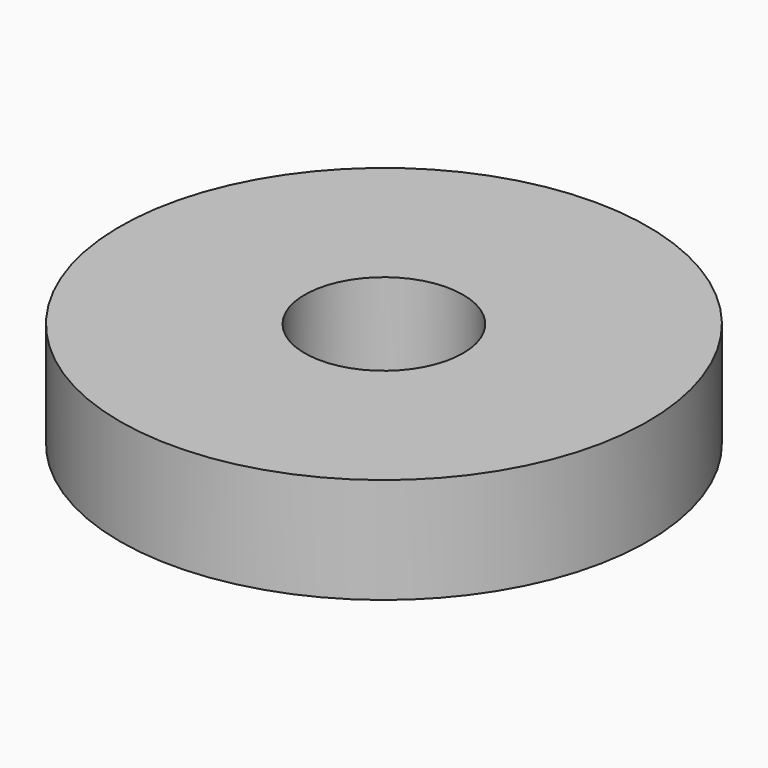
from build123d import *

# Parameters (mm, degrees)
F2_R     = 3
F3_DEPTH = 12.5


with BuildPart() as f1:
    # F0 (on Right) → F1 (revolve)
    with BuildSketch(Plane.YZ):
        Polygon((5.029371, -2.514668), (10.000062, -1.485308), (10.000062, 2.515331), (0, 2.515331), (0, -2.511455), align=None)
    revolve(axis=Axis((0, 0, 0.001938), (0, 0, -1)))

    # F2 (on Top) → F3 (cut, symmetric)
    with BuildSketch(Plane.XY):
        Circle(F2_R)
    extrude(amount=F3_DEPTH, both=True, mode=Mode.SUBTRACT)


solid = f1.part
